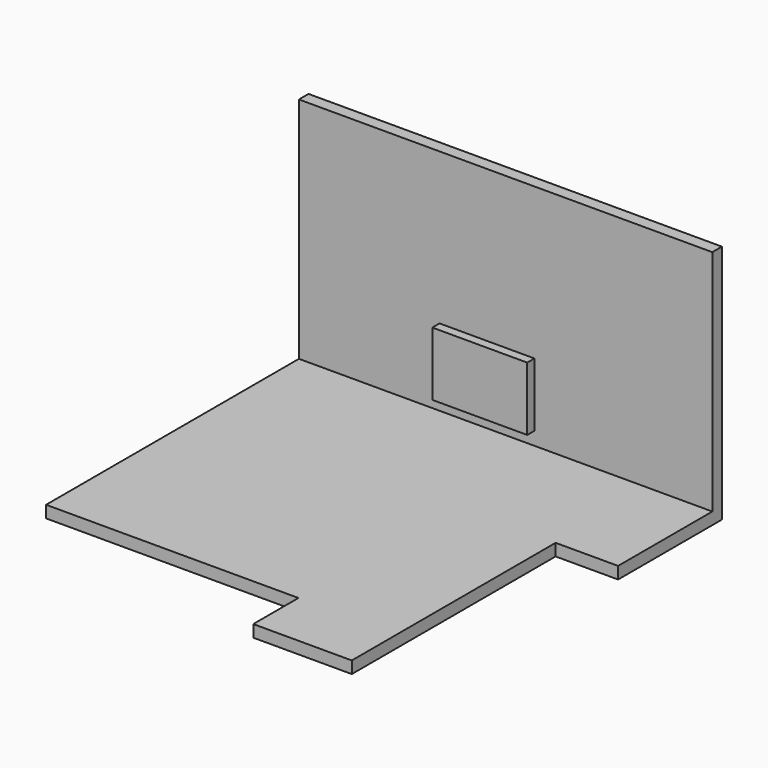
from build123d import *

# Parameters (mm, degrees)
F1_DEPTH = 100
F2_W     = 3440
F2_H     = 2000
F3_DEPTH = 100
F4_W     = 790
F4_H     = 530
F5_DEPTH = 75


with BuildPart() as f1:
    # F0 (on Top) → F1 (new body)
    with BuildSketch(Plane.XY):
        Polygon((-820, 0), (0, 0), (0, 2120), (520, 2120), (520, 3100), (-2920, 3100), (-2920, 470), (-820, 470), align=None)
    extrude(amount=F1_DEPTH)

    # F2 (on face) → F3 (join)
    with BuildSketch(Plane(origin=(0, 3100, 0), x_dir=(-1, 0, 0), z_dir=(0, 1, 0))):
        with Locations((1200, 1000)):
            Rectangle(F2_W, F2_H)
    extrude(amount=F3_DEPTH)

    # F4 (on face) → F5 (join)
    with BuildSketch(Plane.XZ.offset(-3100)):
        with Locations((-1355, 475)):
            Rectangle(F4_W, F4_H)
    extrude(amount=F5_DEPTH)


solid = f1.part
